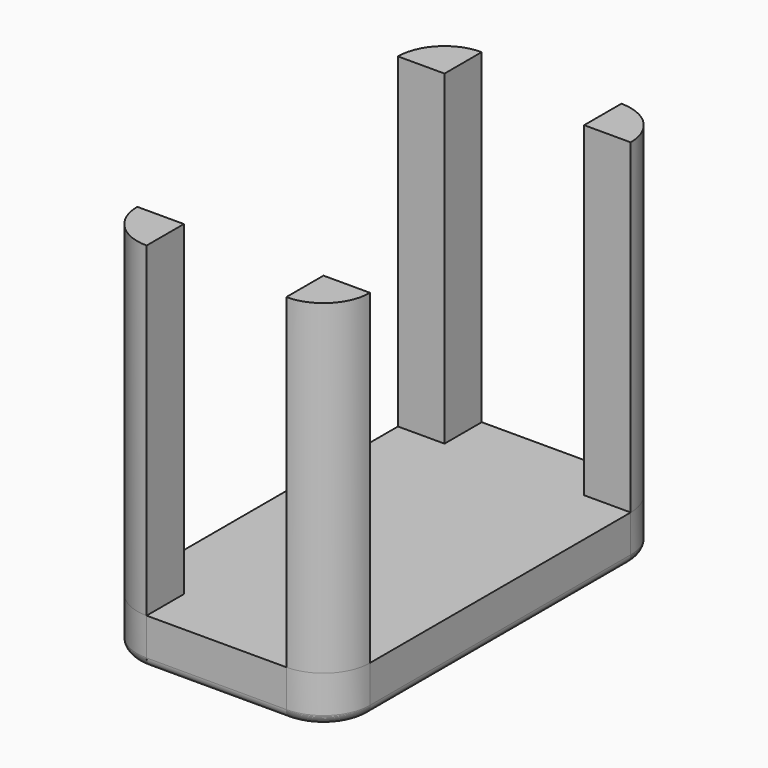
from build123d import *

# Parameters (mm, degrees)
F0_W     = 127
F0_H     = 228.6
F1_DEPTH = 228.6
F2_T     = -2.54
F4_DEPTH = 203.2
F5_DEPTH = 25.4
F7_R     = 5.08
F8_R     = 5.08
F8_2_R   = 5.08
F8_3_R   = 5.08
F8_4_R   = 5.08


with BuildPart() as f1:
    # F0 (on Front) → F1 (new body)
    with BuildSketch(Plane.XZ):
        with Locations((-36.7297379524, 74.5957889438)):
            Rectangle(F0_W, F0_H)
    extrude(amount=F1_DEPTH)

    # F2
    f2_openings = [f1.faces().sort_by_distance(p)[0] for p in [
        (-36.729738, -114.3, 188.895789),
    ]]
    offset(amount=F2_T, openings=f2_openings)


with BuildPart() as f4:
    # F3 (on Top) → F4 (new body)
    with BuildSketch(Plane.XY):
        with BuildLine():
            Line((64.1182889998, -25.4), (64.1182889998, 0))
            ThreePointArc((64.1182889998, 0), (46.1577767577, -7.4394877579), (38.7182889998, -25.4))
            Line((38.7182889998, -25.4), (64.1182889998, -25.4))
        make_face()
    extrude(amount=F4_DEPTH)

    # F8#4
    f8_4_edges = [f4.edges().sort_by_distance(p)[0] for p in [
        (46.157777, -7.439488, 0),
    ]]
    fillet(f8_4_edges, radius=F8_4_R)


with BuildPart() as f4b:
    # F3 (on Top) → F4, piece 2 (new body)
    with BuildSketch(Plane.XY):
        with BuildLine():
            ThreePointArc((165.7182889998, -25.4), (158.2788012419, -7.4394877579), (140.3182889998, 0))
            Line((140.3182889998, 0), (140.3182889998, -25.4))
            Line((140.3182889998, -25.4), (165.7182889998, -25.4))
        make_face()
    extrude(amount=F4_DEPTH)

    # F8#3
    f8_3_edges = [f4b.edges().sort_by_distance(p)[0] for p in [
        (158.278801, -7.439488, 0),
    ]]
    fillet(f8_3_edges, radius=F8_3_R)


with BuildPart() as f4c:
    # F3 (on Top) → F4, piece 3 (new body)
    with BuildSketch(Plane.XY):
        with BuildLine():
            ThreePointArc((140.3182889998, -228.6), (158.2788012419, -221.1605122421), (165.7182889998, -203.2))
            Line((165.7182889998, -203.2), (140.3182889998, -203.2))
            Line((140.3182889998, -203.2), (140.3182889998, -228.6))
        make_face()
    extrude(amount=F4_DEPTH)

    # F8#2
    f8_2_edges = [f4c.edges().sort_by_distance(p)[0] for p in [
        (158.278801, -221.160512, 0),
    ]]
    fillet(f8_2_edges, radius=F8_2_R)


with BuildPart() as f4d:
    # F3 (on Top) → F4, piece 4 (new body)
    with BuildSketch(Plane.XY):
        with BuildLine():
            Line((64.1182889998, -203.2), (38.7182889998, -203.2))
            ThreePointArc((38.7182889998, -203.2), (46.1577767577, -221.1605122421), (64.1182889998, -228.6))
            Line((64.1182889998, -228.6), (64.1182889998, -203.2))
        make_face()
    extrude(amount=F4_DEPTH)

    # F8
    f8_edges = [f4d.edges().sort_by_distance(p)[0] for p in [
        (46.157777, -221.160512, 0),
    ]]
    fillet(f8_edges, radius=F8_R)


with BuildPart() as f5:
    # F3 (on Top) → F5 (new body)
    with BuildSketch(Plane.XY):
        with BuildLine():
            Line((64.1182889998, -25.4), (64.1182889998, 0))
            ThreePointArc((64.1182889998, 0), (46.1577767577, -7.4394877579), (38.7182889998, -25.4))
            Line((38.7182889998, -25.4), (64.1182889998, -25.4))
        make_face()
        Polygon((140.3182889998, 0), (64.1182889998, 0), (64.1182889998, -25.4), (38.7182889998, -25.4), (38.7182889998, -203.2), (64.1182889998, -203.2), (64.1182889998, -228.6), (140.3182889998, -228.6), (140.3182889998, -203.2), (165.7182889998, -203.2), (165.7182889998, -25.4), (140.3182889998, -25.4), align=None)
        with BuildLine():
            ThreePointArc((165.7182889998, -25.4), (158.2788012419, -7.4394877579), (140.3182889998, 0))
            Line((140.3182889998, 0), (140.3182889998, -25.4))
            Line((140.3182889998, -25.4), (165.7182889998, -25.4))
        make_face()
        with BuildLine():
            Line((64.1182889998, -203.2), (38.7182889998, -203.2))
            ThreePointArc((38.7182889998, -203.2), (46.1577767577, -221.1605122421), (64.1182889998, -228.6))
            Line((64.1182889998, -228.6), (64.1182889998, -203.2))
        make_face()
        with BuildLine():
            ThreePointArc((140.3182889998, -228.6), (158.2788012419, -221.1605122421), (165.7182889998, -203.2))
            Line((165.7182889998, -203.2), (140.3182889998, -203.2))
            Line((140.3182889998, -203.2), (140.3182889998, -228.6))
        make_face()
    extrude(amount=F5_DEPTH)

    # F7
    f7_edges = [f5.edges().sort_by_distance(p)[0] for p in [
        (46.157777, -7.439488, 0),
        (38.718289, -114.3, 0),
        (46.157777, -221.160512, 0),
        (102.218289, -228.6, 0),
        (158.278801, -221.160512, 0),
        (165.718289, -114.3, 0),
        (158.278801, -7.439488, 0),
        (102.218289, 0, 0),
    ]]
    fillet(f7_edges, radius=F7_R)


solid = Compound([f4.part, f4b.part, f4c.part, f4d.part, f5.part])
